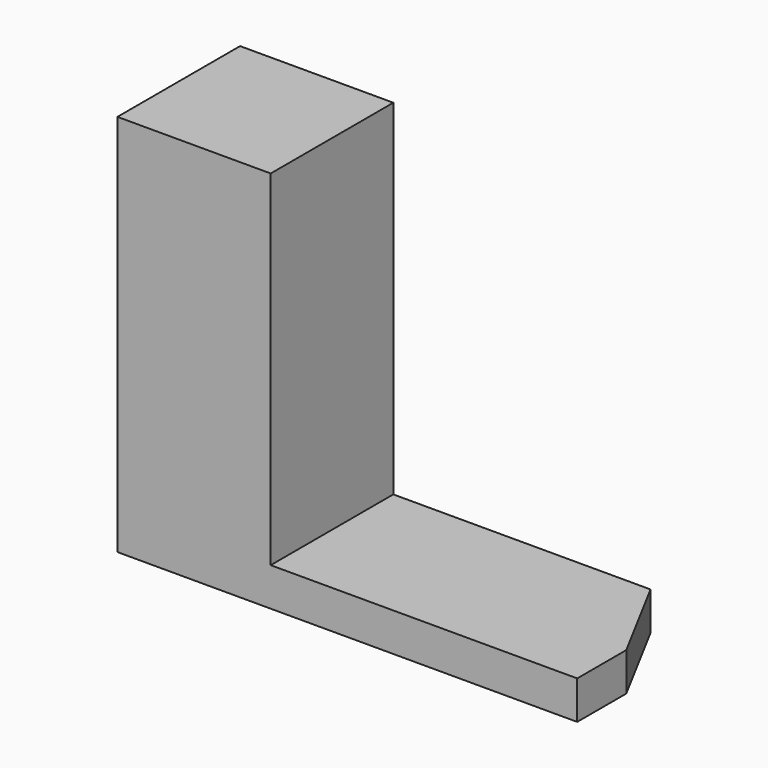
from build123d import *

# Parameters (mm, degrees)
F0_W     = 10
F0_H     = 10
F1_DEPTH = 2.5
F2_DEPTH = 25


with BuildPart() as f1:
    # F0 (on Top) → F1 (new body)
    with BuildSketch(Plane.XY):
        Polygon((-21.253112, -2.7025), (-1.253112, -2.7025), (-1.253112, 1.2975), (-4.467398, 7.2975), (-21.253112, 7.2975), align=None)
        with Locations((-26.253112, 2.2975)):
            Rectangle(F0_W, F0_H)
    extrude(amount=F1_DEPTH)

    # F0 (on Top) → F2 (join)
    with BuildSketch(Plane.XY):
        with Locations((-26.253112, 2.2975)):
            Rectangle(F0_W, F0_H)
    extrude(amount=F2_DEPTH)


solid = f1.part
